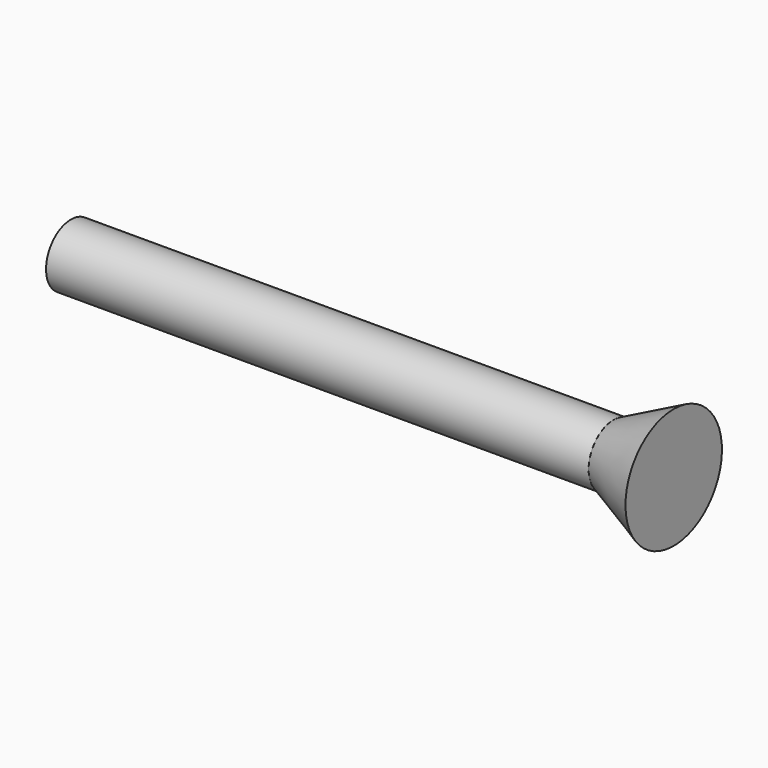
from build123d import *

# Parameters (mm, degrees)
F0_R     = 2.620635
F1_DEPTH = 45.72


with BuildPart() as f1:
    # F0 (on Right) → F1 (new body)
    with BuildSketch(Plane.YZ):
        Circle(F0_R)
    extrude(amount=F1_DEPTH)

    # F2 (on Front) → F3 (revolve)
    with BuildSketch(Plane.XZ):
        Polygon((50.8, 5.08), (45.72, 2.620635), (45.72, 0), (50.8, 0), align=None)
    revolve(axis=Axis((48.26, 0, 0), (-1, 0, 0)))


solid = f1.part
